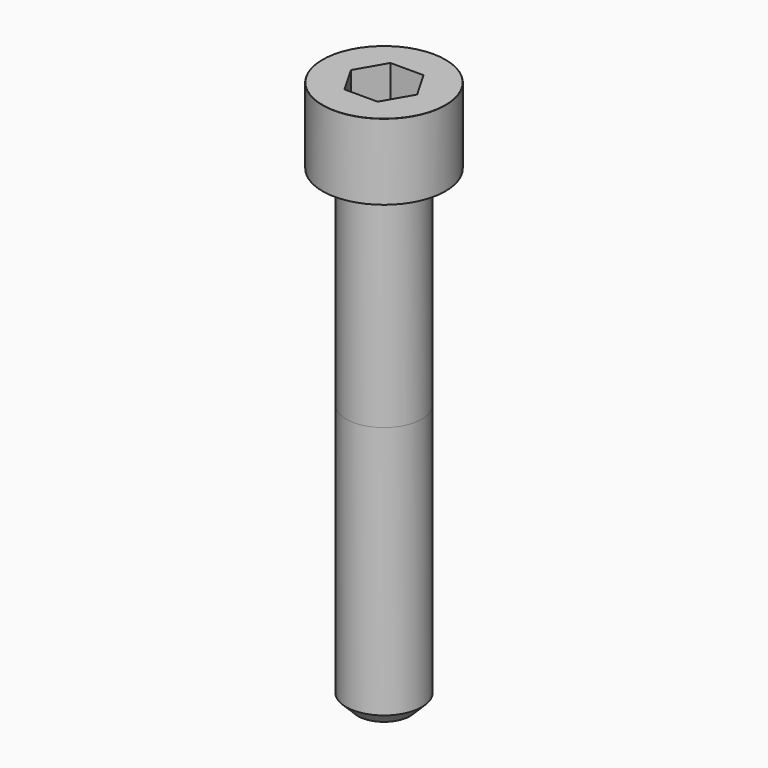
from build123d import *

# Parameters (mm, degrees)
POCKET_DEPTH = 6.06


with BuildPart() as part:
    # Sketch → Revolve (revolve)
    with BuildSketch(Plane.YZ):
        with BuildLine():
            Line((3.999, 0), (6.5, 0))
            Line((6.5, 0), (6.5, 7.97229))
            ThreePointArc((6.5, 7.97229), (6.491884, 7.991884), (6.47229, 8))
            Line((6.47229, 8), (0, 8))
            Line((0, -50), (0, 8))
            Line((2.75, -50), (0, -50))
            Line((4, -48.75), (2.75, -50))
            Line((4, -22), (4, -48.75))
            Line((3.999, 0), (4, -22))
        make_face()
    revolve(axis=Axis((0, 0, 0), (0, 0, 1)))

    # Sketch001 → Pocket (cut)
    with BuildSketch(Plane.XY.offset(8)):
        Polygon((3.498743, 0), (1.749371, 3.03), (-1.749371, 3.03), (-3.498743, 0), (-1.749371, -3.03), (1.749371, -3.03), align=None)
    extrude(amount=-POCKET_DEPTH, mode=Mode.SUBTRACT)


solid = part.part
